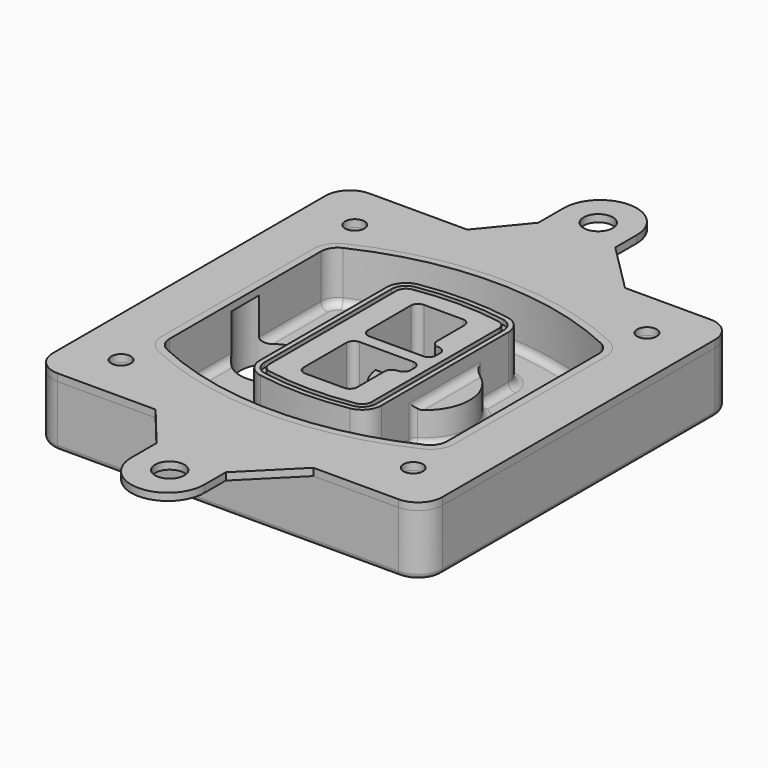
from build123d import *

# Parameters (mm, degrees)
F0_R      = 4
F1_DEPTH  = 25
F2_DEPTH  = 3
F3_DEPTH  = 18
F5_DEPTH  = 21
F6_DEPTH  = 2
F8_DEPTH  = 20
F9_DEPTH  = 16
F10_DEPTH = 25
F7_R      = 6
F7_R_2    = 4
F11_DEPTH = 6
F13_DEPTH = 9
F14_R     = 3
F15_R     = 2
F16_R     = 6
F16_R_2   = 4
F17_DEPTH = 3


with BuildPart() as f1:
    # F0 (on Top) → F1 (new body)
    with BuildSketch(Plane.XY):
        with BuildLine():
            ThreePointArc((-80, -70), (-77.0710678119, -77.0710678119), (-70, -80))
            Line((-70, -80), (70, -80))
            ThreePointArc((70, -80), (77.0710678119, -77.0710678119), (80, -70))
            Line((80, -70), (80, 70))
            ThreePointArc((80, 70), (77.0710678119, 77.0710678119), (70, 80))
            Line((70, 80), (-70, 80))
            ThreePointArc((-70, 80), (-77.0710678119, 77.0710678119), (-80, 70))
            Line((-80, 70), (-80, -70))
        make_face()
        with Locations((-60, -60)):
            Circle(F0_R, mode=Mode.SUBTRACT)
        with Locations((60, -60)):
            Circle(F0_R, mode=Mode.SUBTRACT)
        with Locations((-60, 60)):
            Circle(F0_R, mode=Mode.SUBTRACT)
        with BuildLine():
            ThreePointArc((-64, 38.8308515907), (-61.8195654598, 46.3340424013), (-55.9574468085, 51.5000594398))
            ThreePointArc((-55.9574468085, 51.5000594398), (0, 64), (55.9574468085, 51.5000594398))
            ThreePointArc((55.9574468085, 51.5000594398), (61.8195654598, 46.3340424013), (64, 38.8308515907))
            Line((64, 38.8308515907), (64, -38.8308515907))
            ThreePointArc((64, -38.8308515907), (61.8195654598, -46.3340424013), (55.9574468085, -51.5000594398))
            ThreePointArc((55.9574468085, -51.5000594398), (0, -64), (-55.9574468085, -51.5000594398))
            ThreePointArc((-55.9574468085, -51.5000594398), (-61.8195654598, -46.3340424013), (-64, -38.8308515907))
            Line((-64, -38.8308515907), (-64, 38.8308515907))
        make_face(mode=Mode.SUBTRACT)
        with Locations((60, 60)):
            Circle(F0_R, mode=Mode.SUBTRACT)
        with BuildLine():
            ThreePointArc((55.9574468085, 51.5000594398), (0, 64), (-55.9574468085, 51.5000594398))
            ThreePointArc((-55.9574468085, 51.5000594398), (-61.8195654598, 46.3340424013), (-64, 38.8308515907))
            Line((-64, 38.8308515907), (-64, -38.8308515907))
            ThreePointArc((-64, -38.8308515907), (-61.8195654598, -46.3340424013), (-55.9574468085, -51.5000594398))
            ThreePointArc((-55.9574468085, -51.5000594398), (0, -64), (55.9574468085, -51.5000594398))
            ThreePointArc((55.9574468085, -51.5000594398), (61.8195654598, -46.3340424013), (64, -38.8308515907))
            Line((64, -38.8308515907), (64, 38.8308515907))
            ThreePointArc((64, 38.8308515907), (61.8195654598, 46.3340424013), (55.9574468085, 51.5000594398))
        make_face()
        with BuildLine():
            Line((-60, -38.8308515907), (-60, 38.8308515907))
            ThreePointArc((-60, 38.8308515907), (-58.442546757, 44.1902735983), (-54.2553191489, 47.8802857686))
            ThreePointArc((-54.2553191489, 47.8802857686), (0, 60), (54.2553191489, 47.8802857686))
            ThreePointArc((54.2553191489, 47.8802857686), (58.442546757, 44.1902735983), (60, 38.8308515907))
            Line((60, 38.8308515907), (60, -38.8308515907))
            ThreePointArc((60, -38.8308515907), (58.442546757, -44.1902735983), (54.2553191489, -47.8802857686))
            ThreePointArc((54.2553191489, -47.8802857686), (0, -60), (-54.2553191489, -47.8802857686))
            ThreePointArc((-54.2553191489, -47.8802857686), (-58.442546757, -44.1902735983), (-60, -38.8308515907))
        make_face(mode=Mode.SUBTRACT)
        with BuildLine():
            ThreePointArc((-54.2553191489, 47.8802857686), (-58.442546757, 44.1902735983), (-60, 38.8308515907))
            Line((-60, 38.8308515907), (-60, -38.8308515907))
            ThreePointArc((-60, -38.8308515907), (-58.442546757, -44.1902735983), (-54.2553191489, -47.8802857686))
            ThreePointArc((-54.2553191489, -47.8802857686), (0, -60), (54.2553191489, -47.8802857686))
            ThreePointArc((54.2553191489, -47.8802857686), (58.442546757, -44.1902735983), (60, -38.8308515907))
            Line((60, -38.8308515907), (60, 38.8308515907))
            ThreePointArc((60, 38.8308515907), (58.442546757, 44.1902735983), (54.2553191489, 47.8802857686))
            ThreePointArc((54.2553191489, 47.8802857686), (0, 60), (-54.2553191489, 47.8802857686))
        make_face()
        with BuildLine():
            ThreePointArc((52.9787234043, 45.1654555152), (55.9097827299, 42.582446996), (57, 38.8308515907))
            Line((57, 38.8308515907), (57, -38.8308515907))
            ThreePointArc((57, -38.8308515907), (55.9097827299, -42.582446996), (52.9787234043, -45.1654555152))
            ThreePointArc((52.9787234043, -45.1654555152), (0, -57), (-52.9787234043, -45.1654555152))
            ThreePointArc((-52.9787234043, -45.1654555152), (-55.9097827299, -42.582446996), (-57, -38.8308515907))
            Line((-57, -38.8308515907), (-57, 38.8308515907))
            ThreePointArc((-57, 38.8308515907), (-55.9097827299, 42.582446996), (-52.9787234043, 45.1654555152))
            ThreePointArc((-52.9787234043, 45.1654555152), (0, 57), (52.9787234043, 45.1654555152))
        make_face(mode=Mode.SUBTRACT)
        with BuildLine():
            Line((57, -38.8308515907), (57, 38.8308515907))
            ThreePointArc((57, 38.8308515907), (55.9097827299, 42.582446996), (52.9787234043, 45.1654555152))
            ThreePointArc((52.9787234043, 45.1654555152), (0, 57), (-52.9787234043, 45.1654555152))
            ThreePointArc((-52.9787234043, 45.1654555152), (-55.9097827299, 42.582446996), (-57, 38.8308515907))
            Line((-57, 38.8308515907), (-57, -38.8308515907))
            ThreePointArc((-57, -38.8308515907), (-55.9097827299, -42.582446996), (-52.9787234043, -45.1654555152))
            ThreePointArc((-52.9787234043, -45.1654555152), (0, -57), (52.9787234043, -45.1654555152))
            ThreePointArc((52.9787234043, -45.1654555152), (55.9097827299, -42.582446996), (57, -38.8308515907))
        make_face()
    extrude(amount=-F1_DEPTH)

    # F0 (on Top) → F2 (join)
    with BuildSketch(Plane.XY):
        with BuildLine():
            ThreePointArc((-54.2553191489, 47.8802857686), (-58.442546757, 44.1902735983), (-60, 38.8308515907))
            Line((-60, 38.8308515907), (-60, -38.8308515907))
            ThreePointArc((-60, -38.8308515907), (-58.442546757, -44.1902735983), (-54.2553191489, -47.8802857686))
            ThreePointArc((-54.2553191489, -47.8802857686), (0, -60), (54.2553191489, -47.8802857686))
            ThreePointArc((54.2553191489, -47.8802857686), (58.442546757, -44.1902735983), (60, -38.8308515907))
            Line((60, -38.8308515907), (60, 38.8308515907))
            ThreePointArc((60, 38.8308515907), (58.442546757, 44.1902735983), (54.2553191489, 47.8802857686))
            ThreePointArc((54.2553191489, 47.8802857686), (0, 60), (-54.2553191489, 47.8802857686))
        make_face()
        with BuildLine():
            ThreePointArc((52.9787234043, 45.1654555152), (55.9097827299, 42.582446996), (57, 38.8308515907))
            Line((57, 38.8308515907), (57, -38.8308515907))
            ThreePointArc((57, -38.8308515907), (55.9097827299, -42.582446996), (52.9787234043, -45.1654555152))
            ThreePointArc((52.9787234043, -45.1654555152), (0, -57), (-52.9787234043, -45.1654555152))
            ThreePointArc((-52.9787234043, -45.1654555152), (-55.9097827299, -42.582446996), (-57, -38.8308515907))
            Line((-57, -38.8308515907), (-57, 38.8308515907))
            ThreePointArc((-57, 38.8308515907), (-55.9097827299, 42.582446996), (-52.9787234043, 45.1654555152))
            ThreePointArc((-52.9787234043, 45.1654555152), (0, 57), (52.9787234043, 45.1654555152))
        make_face(mode=Mode.SUBTRACT)
    extrude(amount=F2_DEPTH)

    # F0 (on Top) → F3 (cut)
    with BuildSketch(Plane.XY):
        with BuildLine():
            Line((57, -38.8308515907), (57, 38.8308515907))
            ThreePointArc((57, 38.8308515907), (55.9097827299, 42.582446996), (52.9787234043, 45.1654555152))
            ThreePointArc((52.9787234043, 45.1654555152), (0, 57), (-52.9787234043, 45.1654555152))
            ThreePointArc((-52.9787234043, 45.1654555152), (-55.9097827299, 42.582446996), (-57, 38.8308515907))
            Line((-57, 38.8308515907), (-57, -38.8308515907))
            ThreePointArc((-57, -38.8308515907), (-55.9097827299, -42.582446996), (-52.9787234043, -45.1654555152))
            ThreePointArc((-52.9787234043, -45.1654555152), (0, -57), (52.9787234043, -45.1654555152))
            ThreePointArc((52.9787234043, -45.1654555152), (55.9097827299, -42.582446996), (57, -38.8308515907))
        make_face()
    extrude(amount=-F3_DEPTH, mode=Mode.SUBTRACT)

    # F4 (on face) → F5 (join, through all)
    with BuildSketch(Plane.XY.offset(3)):
        with BuildLine():
            ThreePointArc((-25, -32.5662280692), (-23.1122504785, -37.7276614059), (-18.3399014778, -40.4532214146))
            ThreePointArc((-18.3399014778, -40.4532214146), (0, -42), (18.3399014778, -40.4532214146))
            ThreePointArc((18.3399014778, -40.4532214146), (23.1122504785, -37.7276614059), (25, -32.5662280692))
            Line((25, -32.5662280692), (25, 32.5662280692))
            ThreePointArc((25, 32.5662280692), (23.1122504785, 37.7276614059), (18.3399014778, 40.4532214146))
            ThreePointArc((18.3399014778, 40.4532214146), (0, 42), (-18.3399014778, 40.4532214146))
            ThreePointArc((-18.3399014778, 40.4532214146), (-23.1122504785, 37.7276614059), (-25, 32.5662280692))
            Line((-25, 32.5662280692), (-25, -32.5662280692))
        make_face()
        with BuildLine():
            ThreePointArc((18.0049261084, 38.4814730782), (21.5841878588, 36.4373030717), (23, 32.5662280692))
            Line((23, 32.5662280692), (23, -32.5662280692))
            ThreePointArc((23, -32.5662280692), (21.5841878588, -36.4373030717), (18.0049261084, -38.4814730782))
            ThreePointArc((18.0049261084, -38.4814730782), (0, -40), (-18.0049261084, -38.4814730782))
            ThreePointArc((-18.0049261084, -38.4814730782), (-21.5841878588, -36.4373030717), (-23, -32.5662280692))
            Line((-23, -32.5662280692), (-23, 32.5662280692))
            ThreePointArc((-23, 32.5662280692), (-21.5841878588, 36.4373030717), (-18.0049261084, 38.4814730782))
            ThreePointArc((-18.0049261084, 38.4814730782), (0, 40), (18.0049261084, 38.4814730782))
        make_face(mode=Mode.SUBTRACT)
        with BuildLine():
            Line((23, -32.5662280692), (23, 32.5662280692))
            ThreePointArc((23, 32.5662280692), (21.5841878588, 36.4373030717), (18.0049261084, 38.4814730782))
            ThreePointArc((18.0049261084, 38.4814730782), (0, 40), (-18.0049261084, 38.4814730782))
            ThreePointArc((-18.0049261084, 38.4814730782), (-21.5841878588, 36.4373030717), (-23, 32.5662280692))
            Line((-23, 32.5662280692), (-23, -32.5662280692))
            ThreePointArc((-23, -32.5662280692), (-21.5841878588, -36.4373030717), (-18.0049261084, -38.4814730782))
            ThreePointArc((-18.0049261084, -38.4814730782), (0, -40), (18.0049261084, -38.4814730782))
            ThreePointArc((18.0049261084, -38.4814730782), (21.5841878588, -36.4373030717), (23, -32.5662280692))
        make_face()
        with BuildLine():
            ThreePointArc((17.6699507389, 36.5097247419), (20.0561252392, 35.1469447375), (21, 32.5662280692))
            Line((21, 32.5662280692), (21, -32.5662280692))
            ThreePointArc((21, -32.5662280692), (20.0561252392, -35.1469447375), (17.6699507389, -36.5097247419))
            ThreePointArc((17.6699507389, -36.5097247419), (0, -38), (-17.6699507389, -36.5097247419))
            ThreePointArc((-17.6699507389, -36.5097247419), (-20.0561252392, -35.1469447375), (-21, -32.5662280692))
            Line((-21, -32.5662280692), (-21, 32.5662280692))
            ThreePointArc((-21, 32.5662280692), (-20.0561252392, 35.1469447375), (-17.6699507389, 36.5097247419))
            ThreePointArc((-17.6699507389, 36.5097247419), (0, 38), (17.6699507389, 36.5097247419))
        make_face(mode=Mode.SUBTRACT)
        with BuildLine():
            Line((21, -32.5662280692), (21, 32.5662280692))
            ThreePointArc((21, 32.5662280692), (20.0561252392, 35.1469447375), (17.6699507389, 36.5097247419))
            ThreePointArc((17.6699507389, 36.5097247419), (0, 38), (-17.6699507389, 36.5097247419))
            ThreePointArc((-17.6699507389, 36.5097247419), (-20.0561252392, 35.1469447375), (-21, 32.5662280692))
            Line((-21, 32.5662280692), (-21, -32.5662280692))
            ThreePointArc((-21, -32.5662280692), (-20.0561252392, -35.1469447375), (-17.6699507389, -36.5097247419))
            ThreePointArc((-17.6699507389, -36.5097247419), (0, -38), (17.6699507389, -36.5097247419))
            ThreePointArc((17.6699507389, -36.5097247419), (20.0561252392, -35.1469447375), (21, -32.5662280692))
        make_face()
        with BuildLine():
            Line((-8, -2.5), (14, -2.5))
            ThreePointArc((14, -2.5), (16.1213203436, -3.3786796564), (17, -5.5))
            Line((17, -5.5), (17, -7.5))
            ThreePointArc((17, -7.5), (16.1213203436, -9.6213203436), (14, -10.5))
            ThreePointArc((14, -10.5), (11.8786796564, -11.3786796564), (11, -13.5))
            Line((11, -13.5), (11, -27.5))
            ThreePointArc((11, -27.5), (10.1213203436, -29.6213203436), (8, -30.5))
            Line((8, -30.5), (-8, -30.5))
            ThreePointArc((-8, -30.5), (-10.1213203436, -29.6213203436), (-11, -27.5))
            Line((-11, -27.5), (-11, -5.5))
            ThreePointArc((-11, -5.5), (-10.1213203436, -3.3786796564), (-8, -2.5))
        make_face(mode=Mode.SUBTRACT)
        with BuildLine():
            ThreePointArc((-8, 2.5), (-10.1213203436, 3.3786796564), (-11, 5.5))
            Line((-11, 5.5), (-11, 27.5))
            ThreePointArc((-11, 27.5), (-10.1213203436, 29.6213203436), (-8, 30.5))
            Line((-8, 30.5), (8, 30.5))
            ThreePointArc((8, 30.5), (10.1213203436, 29.6213203436), (11, 27.5))
            Line((11, 27.5), (11, 13.5))
            ThreePointArc((11, 13.5), (11.8786796564, 11.3786796564), (14, 10.5))
            ThreePointArc((14, 10.5), (16.1213203436, 9.6213203436), (17, 7.5))
            Line((17, 7.5), (17, 5.5))
            ThreePointArc((17, 5.5), (16.1213203436, 3.3786796564), (14, 2.5))
            Line((14, 2.5), (-8, 2.5))
        make_face(mode=Mode.SUBTRACT)
    extrude(amount=-F5_DEPTH)

    # F4 (on face) → F6 (cut)
    with BuildSketch(Plane.XY.offset(3)):
        with BuildLine():
            Line((23, -32.5662280692), (23, 32.5662280692))
            ThreePointArc((23, 32.5662280692), (21.5841878588, 36.4373030717), (18.0049261084, 38.4814730782))
            ThreePointArc((18.0049261084, 38.4814730782), (0, 40), (-18.0049261084, 38.4814730782))
            ThreePointArc((-18.0049261084, 38.4814730782), (-21.5841878588, 36.4373030717), (-23, 32.5662280692))
            Line((-23, 32.5662280692), (-23, -32.5662280692))
            ThreePointArc((-23, -32.5662280692), (-21.5841878588, -36.4373030717), (-18.0049261084, -38.4814730782))
            ThreePointArc((-18.0049261084, -38.4814730782), (0, -40), (18.0049261084, -38.4814730782))
            ThreePointArc((18.0049261084, -38.4814730782), (21.5841878588, -36.4373030717), (23, -32.5662280692))
        make_face()
        with BuildLine():
            ThreePointArc((17.6699507389, 36.5097247419), (20.0561252392, 35.1469447375), (21, 32.5662280692))
            Line((21, 32.5662280692), (21, -32.5662280692))
            ThreePointArc((21, -32.5662280692), (20.0561252392, -35.1469447375), (17.6699507389, -36.5097247419))
            ThreePointArc((17.6699507389, -36.5097247419), (0, -38), (-17.6699507389, -36.5097247419))
            ThreePointArc((-17.6699507389, -36.5097247419), (-20.0561252392, -35.1469447375), (-21, -32.5662280692))
            Line((-21, -32.5662280692), (-21, 32.5662280692))
            ThreePointArc((-21, 32.5662280692), (-20.0561252392, 35.1469447375), (-17.6699507389, 36.5097247419))
            ThreePointArc((-17.6699507389, 36.5097247419), (0, 38), (17.6699507389, 36.5097247419))
        make_face(mode=Mode.SUBTRACT)
    extrude(amount=-F6_DEPTH, mode=Mode.SUBTRACT)

    # F7 (on face) → F8 (join)
    with BuildSketch(Plane(origin=(0, 0, -25), x_dir=(1, 0, 0), z_dir=(0, 0, -1))):
        with BuildLine():
            ThreePointArc((3.28842436, 0), (16.7567035675, 13.4682792075), (30.224982775, 0))
            Line((30.224982775, 0), (35.224982775, 0))
            ThreePointArc((35.224982775, 0), (16.7567035675, 18.4682792075), (-1.71157564, 0))
            Line((-1.71157564, 0), (3.28842436, 0))
        make_face()
        with BuildLine():
            Line((3.28842436, 0), (30.224982775, 0))
            ThreePointArc((30.224982775, 0), (16.7567035675, 13.4682792075), (3.28842436, 0))
        make_face()
        with BuildLine():
            ThreePointArc((3.28842436, 0), (16.7567035675, -13.4682792075), (30.224982775, 0))
            Line((30.224982775, 0), (3.28842436, 0))
        make_face()
        with BuildLine():
            Line((35.224982775, 0), (30.224982775, 0))
            ThreePointArc((30.224982775, 0), (16.7567035675, -13.4682792075), (3.28842436, 0))
            Line((3.28842436, 0), (-1.71157564, 0))
            ThreePointArc((-1.71157564, 0), (16.7567035675, -18.4682792075), (35.224982775, 0))
        make_face()
    extrude(amount=-F8_DEPTH)

    # F7 (on face) → F9 (cut)
    with BuildSketch(Plane(origin=(0, 0, -25), x_dir=(1, 0, 0), z_dir=(0, 0, -1))):
        with BuildLine():
            Line((3.28842436, 0), (30.224982775, 0))
            ThreePointArc((30.224982775, 0), (16.7567035675, 13.4682792075), (3.28842436, 0))
        make_face()
        with BuildLine():
            ThreePointArc((3.28842436, 0), (16.7567035675, -13.4682792075), (30.224982775, 0))
            Line((30.224982775, 0), (3.28842436, 0))
        make_face()
    extrude(amount=-F9_DEPTH, mode=Mode.SUBTRACT)

    # F7 (on face) → F10 (cut)
    with BuildSketch(Plane(origin=(0, 0, -25), x_dir=(1, 0, 0), z_dir=(0, 0, -1))):
        with BuildLine():
            Line((-59.0318229325, 0), (-32.0952645175, 0))
            ThreePointArc((-32.0952645175, 0), (-45.563543725, 13.4682792075), (-59.0318229325, 0))
        make_face()
        with BuildLine():
            ThreePointArc((-59.0318229325, 0), (-45.563543725, -13.4682792075), (-32.0952645175, 0))
            Line((-32.0952645175, 0), (-59.0318229325, 0))
        make_face()
    extrude(amount=-F10_DEPTH, mode=Mode.SUBTRACT)

    # F7 (on face) → F11 (cut)
    with BuildSketch(Plane(origin=(0, 0, -25), x_dir=(1, 0, 0), z_dir=(0, 0, -1))):
        with Locations((60, -60)):
            Circle(F7_R)
        with Locations((60, -60)):
            Circle(F7_R_2, mode=Mode.SUBTRACT)
        with Locations((60, -60)):
            Circle(F7_R)
        with Locations((60, -60)):
            Circle(F7_R_2, mode=Mode.SUBTRACT)
        with Locations((-60, -60)):
            Circle(F7_R)
        with Locations((-60, -60)):
            Circle(F7_R_2, mode=Mode.SUBTRACT)
        with Locations((-60, -60)):
            Circle(F7_R)
        with Locations((-60, -60)):
            Circle(F7_R_2, mode=Mode.SUBTRACT)
        with Locations((-60, 60)):
            Circle(F7_R)
        with Locations((-60, 60)):
            Circle(F7_R_2, mode=Mode.SUBTRACT)
        with Locations((-60, 60)):
            Circle(F7_R)
        with Locations((-60, 60)):
            Circle(F7_R_2, mode=Mode.SUBTRACT)
        with Locations((60, 60)):
            Circle(F7_R)
        with Locations((60, 60)):
            Circle(F7_R_2, mode=Mode.SUBTRACT)
        with Locations((60, 60)):
            Circle(F7_R)
        with Locations((60, 60)):
            Circle(F7_R_2, mode=Mode.SUBTRACT)
    extrude(amount=-F11_DEPTH, mode=Mode.SUBTRACT)

    # F12 (on face) → F13 (cut, through all)
    with BuildSketch(Plane(origin=(0, 0, -9), x_dir=(1, 0, 0), z_dir=(0, 0, -1))):
        with BuildLine():
            Line((11, 13.5), (11, 17.5481537753))
            ThreePointArc((11, 17.5481537753), (2.5696536419, 11.8239143813), (-1.5415842455, 2.5))
            Line((-1.5415842455, 2.5), (3.5224848595, 2.5))
            ThreePointArc((3.5224848595, 2.5), (6.1857188154, 8.3455872281), (11.2536447004, 12.2927168648))
            ThreePointArc((11.2536447004, 12.2927168648), (11.0640958889, 12.8831798879), (11, 13.5))
        make_face()
        with BuildLine():
            ThreePointArc((11.2536447004, -12.2927168648), (6.1857188154, -8.3455872281), (3.5224848595, -2.5))
            Line((3.5224848595, -2.5), (-1.5415842455, -2.5))
            ThreePointArc((-1.5415842455, -2.5), (2.5696536419, -11.8239143813), (11, -17.5481537753))
            Line((11, -17.5481537753), (11, -13.5))
            ThreePointArc((11, -13.5), (11.0640958889, -12.8831798879), (11.2536447004, -12.2927168648))
        make_face()
        with BuildLine():
            ThreePointArc((11.2536447004, 12.2927168648), (6.1857188154, 8.3455872281), (3.5224848595, 2.5))
            Line((3.5224848595, 2.5), (14, 2.5))
            ThreePointArc((14, 2.5), (16.1213203436, 3.3786796564), (17, 5.5))
            Line((17, 5.5), (17, 7.5))
            ThreePointArc((17, 7.5), (16.1213203436, 9.6213203436), (14, 10.5))
            ThreePointArc((14, 10.5), (12.3601599782, 10.9878446101), (11.2536447004, 12.2927168648))
        make_face()
        with BuildLine():
            Line((14, -2.5), (3.5224848595, -2.5))
            ThreePointArc((3.5224848595, -2.5), (6.1857188154, -8.3455872281), (11.2536447004, -12.2927168648))
            ThreePointArc((11.2536447004, -12.2927168648), (12.3601599782, -10.9878446101), (14, -10.5))
            ThreePointArc((14, -10.5), (16.1213203436, -9.6213203436), (17, -7.5))
            Line((17, -7.5), (17, -5.5))
            ThreePointArc((17, -5.5), (16.1213203436, -3.3786796564), (14, -2.5))
        make_face()
    extrude(amount=F13_DEPTH, mode=Mode.SUBTRACT)

    # F14
    f14_edges = [f1.edges().sort_by_distance(p)[0] for p in [
        (-57, -22.97218, -18),
        (-57, 22.97218, -18),
        (25, 0, -5),
        (25, 16.526506, -11.5),
        (25, -16.526506, -11.5),
        (25, -24.546367, -18),
        (35.224983, 0, -18),
    ]]
    fillet(f14_edges, radius=F14_R)

    # F15
    f15_edges = [f1.edges().sort_by_distance(p)[0] for p in [
        (0, -80, -25),
    ]]
    fillet(f15_edges, radius=F15_R)


with BuildPart() as f17:
    # F16 (on face) → F17 (new body, through all)
    with BuildSketch(Plane.XY):
        with BuildLine():
            Line((-15, 111), (-15, 98))
            Line((-15, 98), (-29.8039335757, 80))
            Line((-29.8039335757, 80), (34.9825952541, 80))
            Line((34.9825952541, 80), (15, 99.9825952541))
            Line((15, 99.9825952541), (15, 111))
            ThreePointArc((15, 111), (0, 126), (-15, 111))
        make_face()
        with Locations((0, 110)):
            Circle(F16_R, mode=Mode.SUBTRACT)
        with BuildLine():
            Line((34.9825952541, -80), (-29.8039335757, -80))
            Line((-29.8039335757, -80), (-15, -98))
            Line((-15, -98), (-15, -111))
            ThreePointArc((-15, -111), (0, -126), (15, -111))
            Line((15, -111), (15, -99.9825952541))
            Line((15, -99.9825952541), (34.9825952541, -80))
        make_face()
        with Locations((0, -110)):
            Circle(F16_R, mode=Mode.SUBTRACT)
        with BuildLine():
            Line((34.9825952541, 80), (-29.8039335757, 80))
            Line((-29.8039335757, 80), (-70, 80))
            ThreePointArc((-70, 80), (-77.0710678119, 77.0710678119), (-80, 70))
            Line((-80, 70), (-80, -70))
            ThreePointArc((-80, -70), (-77.0710678119, -77.0710678119), (-70, -80))
            Line((-70, -80), (-29.8039335757, -80))
            Line((-29.8039335757, -80), (34.9825952541, -80))
            Line((34.9825952541, -80), (70, -80))
            ThreePointArc((70, -80), (77.0710678119, -77.0710678119), (80, -70))
            Line((80, -70), (80, 70))
            ThreePointArc((80, 70), (77.0710678119, 77.0710678119), (70, 80))
            Line((70, 80), (34.9825952541, 80))
        make_face()
        with Locations((-60, -60)):
            Circle(F16_R_2, mode=Mode.SUBTRACT)
        with BuildLine():
            ThreePointArc((-60, 38.8308515907), (-58.442546757, 44.1902735983), (-54.2553191489, 47.8802857686))
            ThreePointArc((-54.2553191489, 47.8802857686), (0, 60), (54.2553191489, 47.8802857686))
            ThreePointArc((54.2553191489, 47.8802857686), (58.442546757, 44.1902735983), (60, 38.8308515907))
            Line((60, 38.8308515907), (60, -38.8308515907))
            ThreePointArc((60, -38.8308515907), (58.442546757, -44.1902735983), (54.2553191489, -47.8802857686))
            ThreePointArc((54.2553191489, -47.8802857686), (0, -60), (-54.2553191489, -47.8802857686))
            ThreePointArc((-54.2553191489, -47.8802857686), (-58.442546757, -44.1902735983), (-60, -38.8308515907))
            Line((-60, -38.8308515907), (-60, 38.8308515907))
        make_face(mode=Mode.SUBTRACT)
        with Locations((60, -60)):
            Circle(F16_R_2, mode=Mode.SUBTRACT)
        with Locations((-60, 60)):
            Circle(F16_R_2, mode=Mode.SUBTRACT)
        with Locations((60, 60)):
            Circle(F16_R_2, mode=Mode.SUBTRACT)
    extrude(amount=F17_DEPTH)


solid = Compound([f1.part, f17.part])
